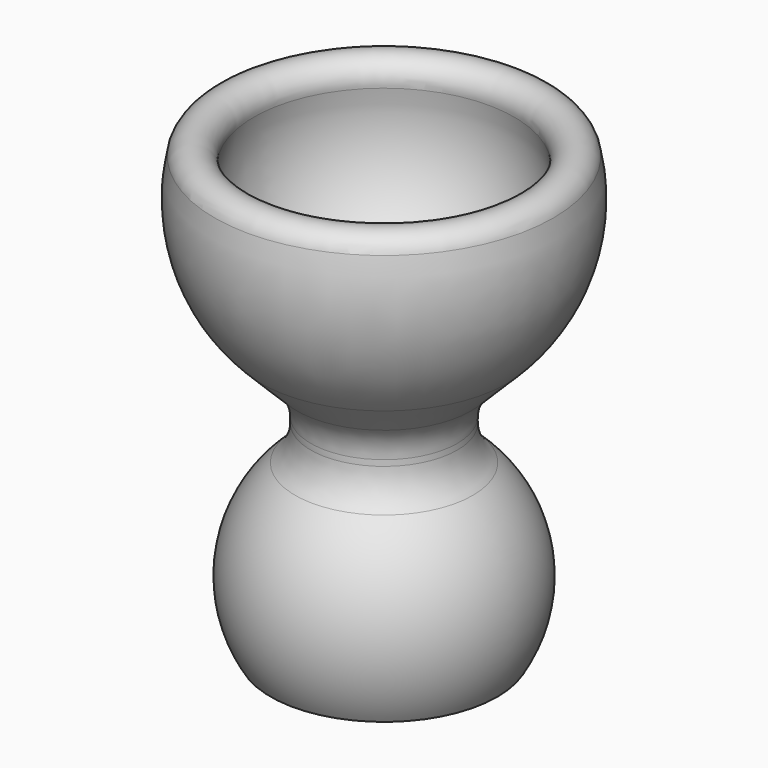
from build123d import *


with BuildPart() as part:
    # Sketch → Revolution (revolve)
    with BuildSketch(Plane.XZ):
        with BuildLine():
            ThreePointArc((6.808818, -24.2), (7.916996, -18.850578), (5.333333, -14.037152))
            ThreePointArc((4.4, -11.950155), (4.643961, -13.09325), (5.333333, -14.037152))
            Line((4.4, -11.596485), (4.4, -11.950155))
            ThreePointArc((5.220101, -9.616586), (4.613137, -10.524972), (4.4, -11.596485))
            Line((7.353344, -7.483344), (5.220101, -9.616586))
            ThreePointArc((7.353344, -7.483344), (10.00323, -3.004306), (10.169255, 2.197242))
            ThreePointArc((10.169255, 2.197242), (8.737033, 3.107475), (7.8268, 1.675253))
            ThreePointArc((3.995029, -7.063025), (7.340662, -3.320836), (7.8268, 1.675253))
            ThreePointArc((3.995029, -7.063025), (2.534464, -8.526739), (2, -10.524252))
            Line((2, -10.524252), (2, -12.506002))
            ThreePointArc((2, -12.506002), (2.394449, -14.238053), (3.5, -15.628501))
            ThreePointArc((4.766172, -22.94), (5.517871, -19.04444), (3.5, -15.628501))
            Line((4.766172, -22.94), (4.988344, -24.2))
            Line((6.808818, -24.2), (4.988344, -24.2))
        make_face()
    revolve(axis=Axis((0, 0, 0), (0, 0, 1)))


solid = part.part
